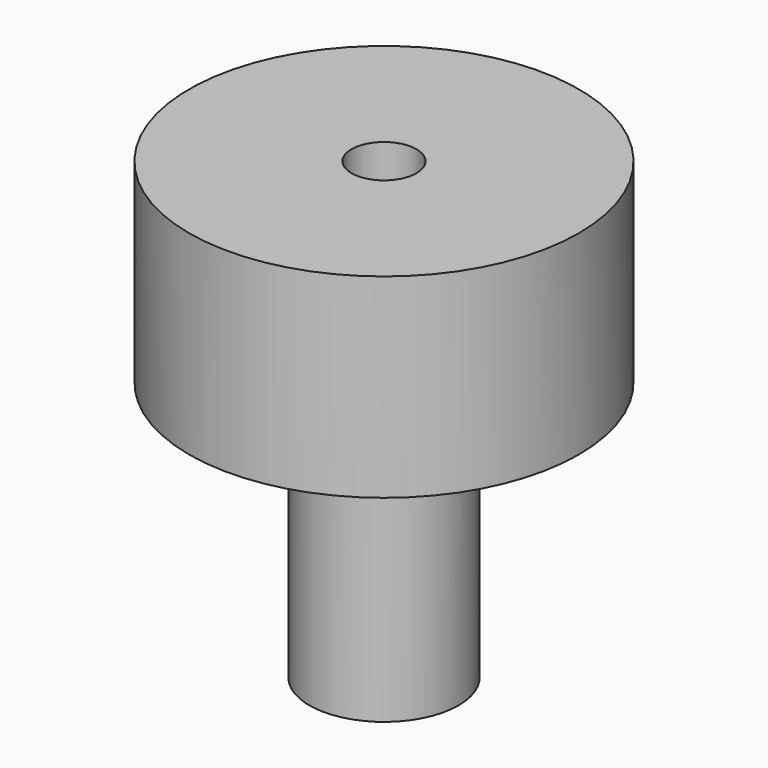
from build123d import *

# Parameters (mm, degrees)
F0_R     = 3
F1_DEPTH = 7
F2_R     = 3
F2_R_2   = 1.15
F3_DEPTH = 4
F4_R     = 0.5
F5_DEPTH = 25


with BuildPart() as f1:
    # F0 (on Top) → F1 (new body)
    with BuildSketch(Plane.XY):
        Circle(F0_R)
    extrude(amount=F1_DEPTH)

    # F2 (on face) → F3 (cut)
    with BuildSketch(Plane(origin=(0, 0, 0), x_dir=(1, 0, 0), z_dir=(0, 0, -1))):
        Circle(F2_R)
        Circle(F2_R_2, mode=Mode.SUBTRACT)
    extrude(amount=-F3_DEPTH, mode=Mode.SUBTRACT)

    # F4 (on face) → F5 (cut)
    with BuildSketch(Plane.XY.offset(7)):
        Circle(F4_R)
    extrude(amount=-F5_DEPTH, mode=Mode.SUBTRACT)


solid = f1.part
